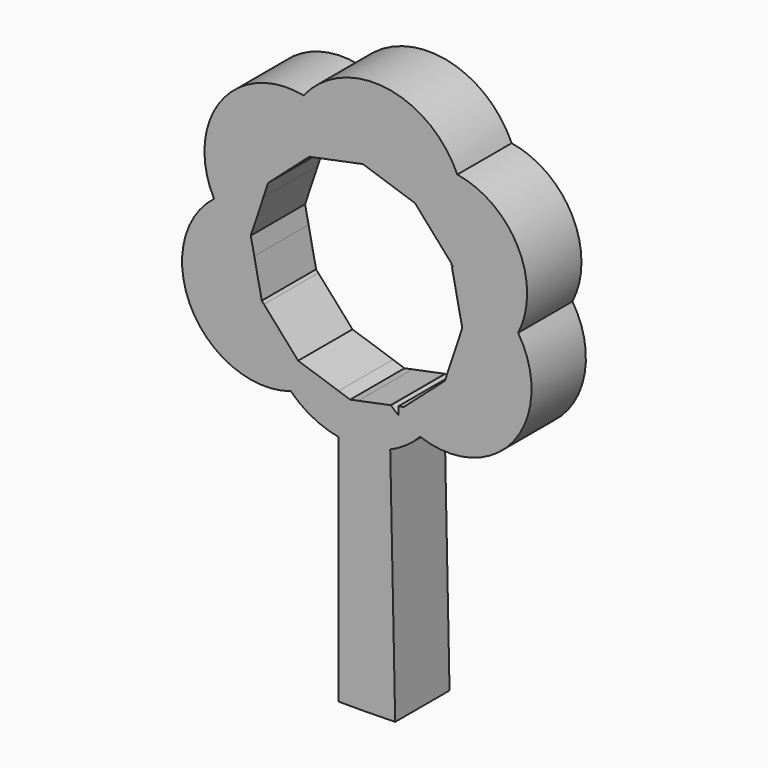
from build123d import *

# Parameters (mm, degrees)
F1_DEPTH = 9


with BuildPart() as f1:
    # F0 (on Front) → F1 (new body)
    with BuildSketch(Plane.XZ):
        with BuildLine():
            ThreePointArc((-19.7199515168, 22.7688088414), (-16.6360107994, 24.4598997459), (-13.1759548296, 25.0911615632))
            Line((-13.1759548296, 25.0911615632), (-12.553585429, 26.9574491451))
            Line((-12.553585429, 26.9574491451), (-10.2510419619, 28.9986901835))
            ThreePointArc((-10.2510419619, 28.9986901835), (-10.1077855778, 34.1050974839), (-7.8535185141, 38.6892220367))
            ThreePointArc((-7.8535185141, 38.6892220367), (-18.8089000647, 34.4723344318), (-19.7199515168, 22.7688088414))
        make_face()
        with BuildLine():
            Line((-14.8518085926, 20.0658099574), (-13.1759548296, 25.0911615632))
            ThreePointArc((-13.1759548296, 25.0911615632), (-16.6360107994, 24.4598997459), (-19.7199515168, 22.7688088414))
            ThreePointArc((-19.7199515168, 22.7688088414), (-17.4770465825, 19.8404198684), (-14.3921665295, 17.8181440266))
            Line((-14.3921665295, 17.8181440266), (-14.8518085926, 20.0658099574))
        make_face()
        with BuildLine():
            Line((-13.3963086419, 12.9483637654), (-14.3921665295, 17.8181440266))
            ThreePointArc((-14.3921665295, 17.8181440266), (-17.4770465825, 19.8404198684), (-19.7199515168, 22.7688088414))
            ThreePointArc((-19.7199515168, 22.7688088414), (-22.6703383342, 8.9306933135), (-9.5498657155, 3.6343339981))
            ThreePointArc((-9.5498657155, 3.6343339981), (-12.2712093358, 7.7530477474), (-13.1041599616, 12.6188166798))
            Line((-13.1041599616, 12.6188166798), (-13.3963086419, 12.9483637654))
        make_face()
        with BuildLine():
            Line((-3.2264382129, 0.3550507135), (-3.2264382129, 5.7278911556))
            Line((-3.2264382129, 5.7278911556), (-5.1312660195, 6.3631129466))
            ThreePointArc((-5.1312660195, 6.3631129466), (-7.1772197402, 4.7342237961), (-9.5498657155, 3.6343339981))
            ThreePointArc((-9.5498657155, 3.6343339981), (-6.6370818502, 1.5146819538), (-3.2264382129, 0.3550507135))
        make_face()
        with BuildLine():
            Line((-1.6854464257, 5.2140013649), (-3.2264382129, 5.7278911556))
            Line((-3.2264382129, 5.7278911556), (-3.2264382129, 0.3550507135))
            ThreePointArc((-3.2264382129, 0.3550507135), (0.2553267791, 0.2456421269), (3.6218142124, 1.140862803))
            Line((3.6218142124, 1.140862803), (3.5146783317, 6.277413876))
            Line((3.5146783317, 6.277413876), (-0.6090724081, 5.4341171602))
            Line((-0.6090724081, 5.4341171602), (-1.6854464257, 5.2140013649))
        make_face()
        with BuildLine():
            ThreePointArc((-9.5498657155, 3.6343339981), (-7.1772197402, 4.7342237961), (-5.1312660195, 6.3631129466))
            Line((-5.1312660195, 6.3631129466), (-8.5770856134, 7.5122245284))
            Line((-8.5770856134, 7.5122245284), (-13.1041599616, 12.6188166798))
            ThreePointArc((-13.1041599616, 12.6188166798), (-12.2712093358, 7.7530477474), (-9.5498657155, 3.6343339981))
        make_face()
        with BuildLine():
            ThreePointArc((3.6218142124, 1.140862803), (0.2553267791, 0.2456421269), (-3.2264382129, 0.3550507135))
            Line((-3.2264382129, 0.3550507135), (-3.2264382129, -30.5104665458))
            Line((-3.2264382129, -30.5104665458), (0, -30.5104665458))
            Line((0, -30.5104665458), (4.2804706275, -30.4379349907))
            Line((4.2804706275, -30.4379349907), (3.6218142124, 1.140862803))
        make_face()
        with BuildLine():
            ThreePointArc((-7.8535185141, 38.6892220367), (-10.1077855778, 34.1050974839), (-10.2510419619, 28.9986901835))
            Line((-10.2510419619, 28.9986901835), (-7.117446192, 31.7766721736))
            Line((-7.117446192, 31.7766721736), (-0.3315885654, 33.1643630917))
            ThreePointArc((-0.3315885654, 33.1643630917), (-3.477568869, 36.7640757707), (-7.8535185141, 38.6892220367))
        make_face()
        with BuildLine():
            ThreePointArc((12.5130116372, 36.0825908768), (3.0643977065, 43.1259953977), (-7.8535185141, 38.6892220367))
            ThreePointArc((-7.8535185141, 38.6892220367), (-3.477568869, 36.7640757707), (-0.3315885654, 33.1643630917))
            Line((-0.3315885654, 33.1643630917), (0, 33.2321721243))
            Line((0, 33.2321721243), (2.4402343405, 32.4184030146))
            ThreePointArc((2.4402343405, 32.4184030146), (7.0001300905, 35.5603661525), (12.5130116372, 36.0825908768))
        make_face()
        with BuildLine():
            Line((3.5146783317, 6.277413876), (3.6218142124, 1.140862803))
            ThreePointArc((3.6218142124, 1.140862803), (4.1675414436, 1.3915355093), (4.70004417, 1.6691969268))
            Line((4.70004417, 1.6691969268), (4.70004417, 5.4740770661))
            ThreePointArc((4.70004417, 5.4740770661), (4.1944674507, 5.8815460805), (3.7138142861, 6.3181366808))
            Line((3.7138142861, 6.3181366808), (3.5146783317, 6.277413876))
        make_face()
        with BuildLine():
            ThreePointArc((20.5664608958, 20.2387270332), (20.5664608958, 30.2074464559), (12.5130116372, 36.0825908768))
            ThreePointArc((12.5130116372, 36.0825908768), (13.5239296541, 30.5833992601), (11.9332966326, 25.2230867446))
            ThreePointArc((11.9332966326, 25.2230867446), (16.8469164385, 23.7650064749), (20.5664608958, 20.2387270332))
        make_face()
        with BuildLine():
            ThreePointArc((11.9332966326, 25.2230867446), (13.5239296541, 30.5833992601), (12.5130116372, 36.0825908768))
            ThreePointArc((12.5130116372, 36.0825908768), (7.0001300905, 35.5603661525), (2.4402343405, 32.4184030146))
            Line((2.4402343405, 32.4184030146), (6.8916391877, 30.9339489607))
            Line((6.8916391877, 30.9339489607), (11.7108622162, 25.4978097237))
            Line((11.7108622162, 25.4978097237), (11.7654730156, 25.2307609848))
            ThreePointArc((11.7654730156, 25.2307609848), (11.849399475, 25.2272442579), (11.9332966326, 25.2230867446))
        make_face()
        with BuildLine():
            Line((4.70004417, 5.4740770661), (4.70004417, 1.6691969268))
            ThreePointArc((4.70004417, 1.6691969268), (6.2285853657, 2.6749839802), (7.5864404314, 3.9014730362))
            ThreePointArc((7.5864404314, 3.9014730362), (6.0841704451, 4.579353109), (4.70004417, 5.4740770661))
        make_face()
        with BuildLine():
            Line((5.4319997663, 6.6695013155), (4.70004417, 6.5198182262))
            Line((4.70004417, 6.5198182262), (4.70004417, 5.4740770661))
            ThreePointArc((4.70004417, 5.4740770661), (6.0841704451, 4.579353109), (7.5864404314, 3.9014730362))
            ThreePointArc((7.5864404314, 3.9014730362), (9.9012477971, 7.4035929552), (10.8681390033, 11.488724344))
            Line((10.8681390033, 11.488724344), (5.4319997663, 6.6695013155))
        make_face()
        with BuildLine():
            ThreePointArc((20.5664608958, 20.2387270332), (16.8469164385, 23.7650064749), (11.9332966326, 25.2230867446))
            ThreePointArc((11.9332966326, 25.2230867446), (11.8720696964, 25.1182665807), (11.8097855463, 25.0140711437))
            Line((11.8097855463, 25.0140711437), (13.1663621669, 18.3803635317))
            Line((13.1663621669, 18.3803635317), (11.7962916439, 14.2719584578))
            ThreePointArc((11.7962916439, 14.2719584578), (16.9481115684, 16.1283678588), (20.5664608958, 20.2387270332))
        make_face()
        with BuildLine():
            ThreePointArc((7.5864404314, 3.9014730362), (19.9595132668, 7.3959808102), (20.5664608958, 20.2387270332))
            ThreePointArc((20.5664608958, 20.2387270332), (16.9481115684, 16.1283678588), (11.7962916439, 14.2719584578))
            Line((11.7962916439, 14.2719584578), (10.8681390033, 11.488724344))
            ThreePointArc((10.8681390033, 11.488724344), (9.9012477971, 7.4035929552), (7.5864404314, 3.9014730362))
        make_face()
    extrude(amount=F1_DEPTH)


solid = f1.part
